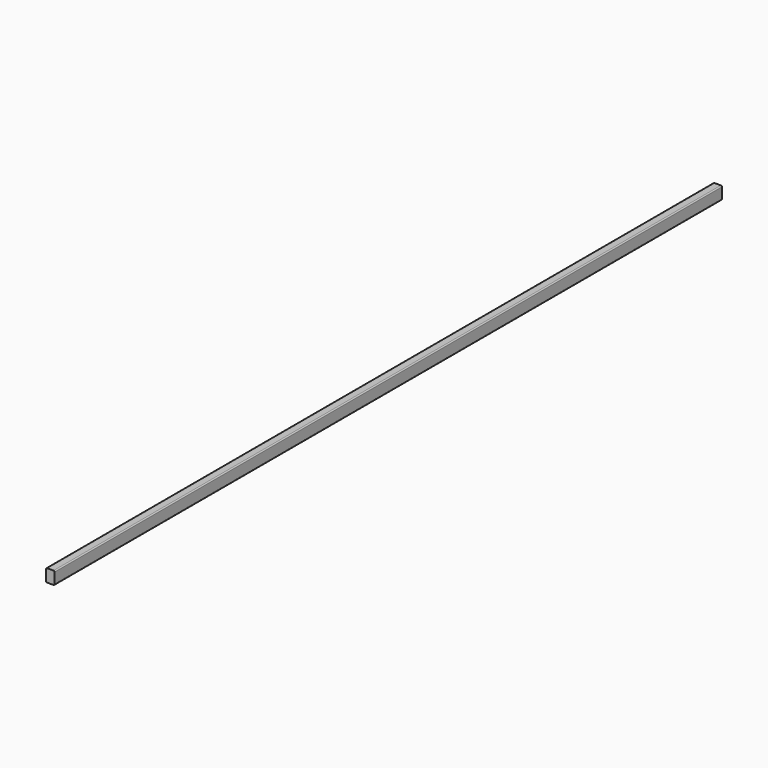
from build123d import *

# Parameters (mm, degrees)
F1_DEPTH = 7877.11645


with BuildPart() as f1:
    # F0 (on Front) → F1 (new body)
    with BuildSketch(Plane.XZ):
        with BuildLine():
            Line((30.2227697551, 60.3341597621), (-29.7772302449, 60.3341597621))
            ThreePointArc((-29.7772302449, 60.3341597621), (-36.8482980568, 57.405227574), (-39.7772302449, 50.3341597621))
            Line((-39.7772302449, 50.3341597621), (-39.7772302449, -49.6658402379))
            ThreePointArc((-39.7772302449, -49.6658402379), (-36.8482980568, -56.7369080497), (-29.7772302449, -59.6658402379))
            Line((-29.7772302449, -59.6658402379), (30.2227697551, -59.6658402379))
            ThreePointArc((30.2227697551, -59.6658402379), (37.2938375669, -56.7369080497), (40.2227697551, -49.6658402379))
            Line((40.2227697551, -49.6658402379), (40.2227697551, 50.3341597621))
            ThreePointArc((40.2227697551, 50.3341597621), (37.2938375669, 57.405227574), (30.2227697551, 60.3341597621))
        make_face()
        with BuildLine():
            ThreePointArc((-34.7772302449, 50.3341597621), (-33.3127641509, 53.8696936681), (-29.7772302449, 55.3341597621))
            Line((-29.7772302449, 55.3341597621), (30.2227697551, 55.3341597621))
            ThreePointArc((30.2227697551, 55.3341597621), (33.758303661, 53.8696936681), (35.2227697551, 50.3341597621))
            Line((35.2227697551, 50.3341597621), (35.2227697551, -49.6658402379))
            ThreePointArc((35.2227697551, -49.6658402379), (33.758303661, -53.2013741438), (30.2227697551, -54.6658402379))
            Line((30.2227697551, -54.6658402379), (-29.7772302449, -54.6658402379))
            ThreePointArc((-29.7772302449, -54.6658402379), (-33.3127641509, -53.2013741438), (-34.7772302449, -49.6658402379))
            Line((-34.7772302449, -49.6658402379), (-34.7772302449, 50.3341597621))
        make_face(mode=Mode.SUBTRACT)
        with BuildLine():
            Line((30.2227697551, 55.3341597621), (-29.7772302449, 55.3341597621))
            ThreePointArc((-29.7772302449, 55.3341597621), (-33.3127641509, 53.8696936681), (-34.7772302449, 50.3341597621))
            Line((-34.7772302449, 50.3341597621), (-34.7772302449, -49.6658402379))
            ThreePointArc((-34.7772302449, -49.6658402379), (-33.3127641509, -53.2013741438), (-29.7772302449, -54.6658402379))
            Line((-29.7772302449, -54.6658402379), (30.2227697551, -54.6658402379))
            ThreePointArc((30.2227697551, -54.6658402379), (33.758303661, -53.2013741438), (35.2227697551, -49.6658402379))
            Line((35.2227697551, -49.6658402379), (35.2227697551, 50.3341597621))
            ThreePointArc((35.2227697551, 50.3341597621), (33.758303661, 53.8696936681), (30.2227697551, 55.3341597621))
        make_face()
    extrude(amount=F1_DEPTH)


solid = f1.part
